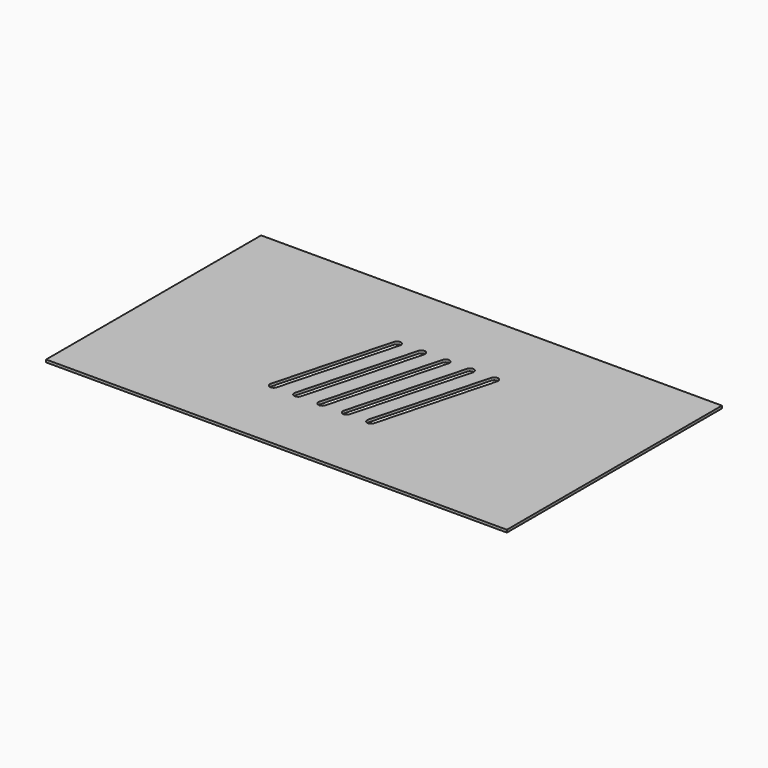
from build123d import *

# Parameters (mm, degrees)
F0_W     = 180
F0_H     = 105
F1_DEPTH = 1


with BuildPart() as f1:
    # F0 (on Top) → F1 (new body)
    with BuildSketch(Plane.XY):
        Rectangle(F0_W, F0_H)
        with BuildLine():
            ThreePointArc((-23.593663, -22.93934), (-25.430781, -24), (-26.491441, -22.162883))
            Line((-26.491441, -22.162883), (-14.406337, 22.93934))
            ThreePointArc((-14.406337, 22.93934), (-12.569219, 24), (-11.508559, 22.162883))
            Line((-11.508559, 22.162883), (-23.593663, -22.93934))
        make_face(mode=Mode.SUBTRACT)
        with BuildLine():
            ThreePointArc((-14.093663, -22.93934), (-15.930781, -24), (-16.991441, -22.162883))
            Line((-16.991441, -22.162883), (-4.906337, 22.93934))
            ThreePointArc((-4.906337, 22.93934), (-3.069219, 24), (-2.008559, 22.162883))
            Line((-2.008559, 22.162883), (-14.093663, -22.93934))
        make_face(mode=Mode.SUBTRACT)
        with BuildLine():
            Line((7.491441, 22.162883), (-4.593663, -22.93934))
            ThreePointArc((-4.593663, -22.93934), (-6.430781, -24), (-7.491441, -22.162883))
            Line((-7.491441, -22.162883), (4.593663, 22.93934))
            ThreePointArc((4.593663, 22.93934), (6.430781, 24), (7.491441, 22.162883))
        make_face(mode=Mode.SUBTRACT)
        with BuildLine():
            ThreePointArc((4.906337, -22.93934), (3.069219, -24), (2.008559, -22.162883))
            Line((2.008559, -22.162883), (14.093663, 22.93934))
            ThreePointArc((14.093663, 22.93934), (15.930781, 24), (16.991441, 22.162883))
            Line((16.991441, 22.162883), (4.906337, -22.93934))
        make_face(mode=Mode.SUBTRACT)
        with BuildLine():
            ThreePointArc((14.406337, -22.93934), (12.569219, -24), (11.508559, -22.162883))
            Line((11.508559, -22.162883), (23.593663, 22.93934))
            ThreePointArc((23.593663, 22.93934), (25.430781, 24), (26.491441, 22.162883))
            Line((26.491441, 22.162883), (14.406337, -22.93934))
        make_face(mode=Mode.SUBTRACT)
    extrude(amount=F1_DEPTH)


solid = f1.part
